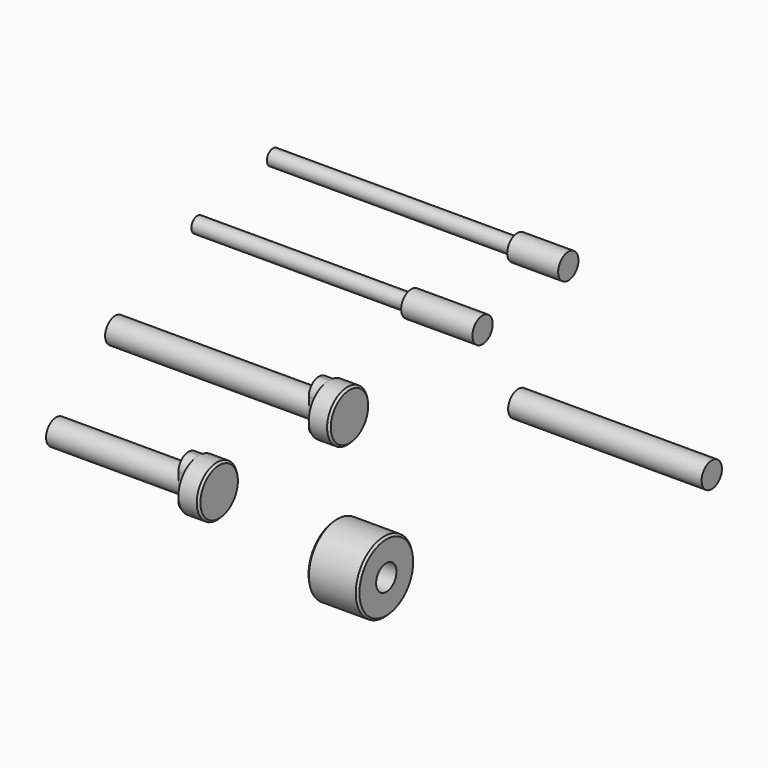
from build123d import *

# Parameters (mm, degrees)
F0_R       = 3.9624
F1_DEPTH   = 15.875
F2_R       = 2.413
F3_DEPTH   = 76.2
F4_R       = 11.1125
F4_R_2     = 3.9624
F5_DEPTH   = 15.875
F6_SIZE    = 0.635
F7_R       = 3.9624
F8_DEPTH   = 22.225
F9_R       = 2.413
F10_DEPTH  = 66.675
F11_R      = 7.9375
F12_DEPTH  = 6.35
F14_DEPTH  = 3.175
F16_DEPTH  = 63.5
F18_DEPTH  = 22.225
F19_R      = 3.9624
F20_DEPTH  = 60.325
F21_SIZE   = 0.635
F21_2_SIZE = 0.635


with BuildPart() as f1:
    # F0 (on Right) → F1 (new body)
    with BuildSketch(Plane.YZ):
        with Locations((30.5405966938, 35.1534970105)):
            Circle(F0_R)
    extrude(amount=F1_DEPTH)

    # F2 (on Right) → F3 (join)
    with BuildSketch(Plane.YZ):
        with Locations((30.5405966938, 35.1534970105)):
            Circle(F2_R)
    extrude(amount=-F3_DEPTH)


with BuildPart() as f5:
    # F4 (on Right) → F5 (new body)
    with BuildSketch(Plane.YZ):
        with Locations((-40.4026657343, -21.4738585055)):
            Circle(F4_R)
        with Locations((-40.4026657343, -21.4738585055)):
            Circle(F4_R_2, mode=Mode.SUBTRACT)
    extrude(amount=F5_DEPTH)

    # F6
    f6_edges = [f5.edges().sort_by_distance(p)[0] for p in [
        (15.875, -51.515166, -21.473859),
        (0, -51.515166, -21.473859),
    ]]
    chamfer(f6_edges, length=F6_SIZE)


with BuildPart() as f8:
    # F7 (on Right) → F8 (new body)
    with BuildSketch(Plane.YZ):
        with Locations((-10.8070094138, 36.5507006645)):
            Circle(F7_R)
    extrude(amount=F8_DEPTH)

    # F9 (on face) → F10 (join)
    with BuildSketch(Plane(origin=(0, 0, 0), x_dir=(0, -1, 0), z_dir=(-1, 0, 0))):
        with Locations((10.8070094138, 36.5507006645)):
            Circle(F9_R)
    extrude(amount=F10_DEPTH)


with BuildPart() as f12:
    # F11 (on Right) → F12 (new body)
    with BuildSketch(Plane.YZ):
        with Locations((-42.8487621248, 20.5777790397)):
            Circle(F11_R)
    extrude(amount=F12_DEPTH)

    # F13 (on face) → F14 (join)
    with BuildSketch(Plane(origin=(0, 0, 0), x_dir=(0, -1, 0), z_dir=(-1, 0, 0))):
        with BuildLine():
            ThreePointArc((46.8111621248, 24.5528790397), (45.6506020346, 27.3547189495), (42.8487621248, 28.5152790397))
            ThreePointArc((42.8487621248, 28.5152790397), (40.046922215, 27.3547189495), (38.8863621248, 24.5528790397))
            Line((38.8863621248, 24.5528790397), (38.8863621248, 16.6026790397))
            ThreePointArc((38.8863621248, 16.6026790397), (40.046922215, 13.80083913), (42.8487621248, 12.6402790397))
            ThreePointArc((42.8487621248, 12.6402790397), (45.6506020346, 13.80083913), (46.8111621248, 16.6026790397))
            Line((46.8111621248, 16.6026790397), (46.8111621248, 24.5528790397))
        make_face()
    extrude(amount=F14_DEPTH)

    # F15 (on face) → F16 (join)
    with BuildSketch(Plane(origin=(-3.175, 0, 0), x_dir=(0, -1, 0), z_dir=(-1, 0, 0))):
        with BuildLine():
            ThreePointArc((46.8111621248, 20.5777790397), (42.8487621248, 24.5401790397), (38.8863621248, 20.5777790397))
            ThreePointArc((38.8863621248, 20.5777790397), (42.8487621248, 16.6153790397), (46.8111621248, 20.5777790397))
        make_face()
    extrude(amount=F16_DEPTH)


with BuildPart() as f17_1:
    # F17: copy of F12
    add(f12.part.moved(Location((0, -50.8, 0))))

    # F18 (cut): a face of the model
    f18_faces = [f17_1.faces().sort_by_distance(p)[0] for p in [
        (-66.675, -93.6487621248, 20.5777790397),
    ]]
    extrude(f18_faces, amount=-F18_DEPTH, mode=Mode.SUBTRACT)

    # F21#2
    f21_2_edges = [f17_1.edges().sort_by_distance(p)[0] for p in [
        (6.35, -101.586262, 20.577779),
    ]]
    chamfer(f21_2_edges, length=F21_2_SIZE)


with BuildPart() as f20:
    # F19 (on Right) → F20 (new body)
    with BuildSketch(Plane.YZ):
        with Locations((30.8908428997, -7.7942148782)):
            Circle(F19_R)
    extrude(amount=F20_DEPTH)


with BuildPart() as f12_1:
    add(f12.part)

    # F21
    f21_edges = [f12_1.edges().sort_by_distance(p)[0] for p in [
        (6.35, -50.786262, 20.577779),
    ]]
    chamfer(f21_edges, length=F21_SIZE)


solid = Compound([f1.part, f5.part, f8.part, f17_1.part, f20.part, f12_1.part])
